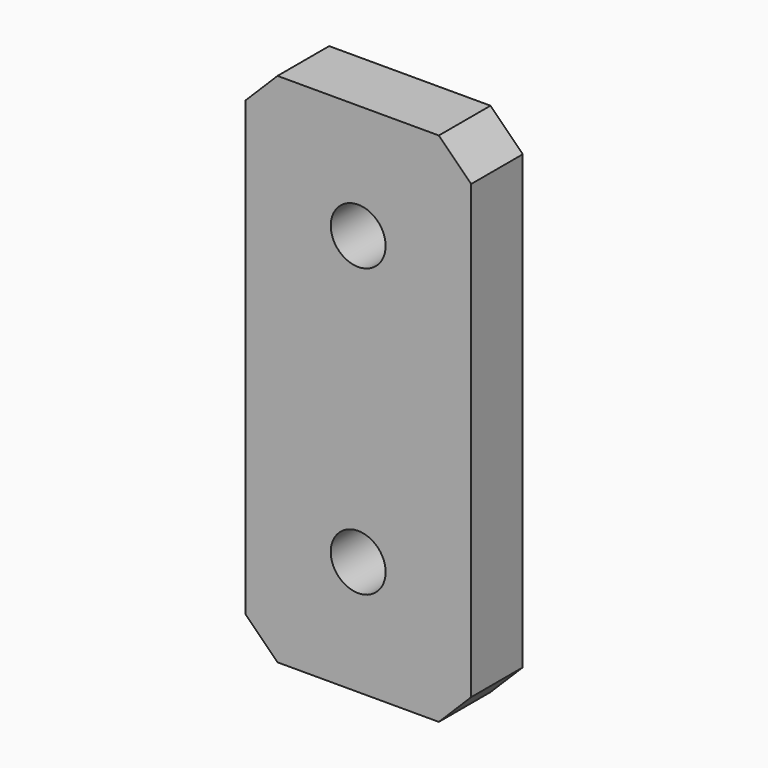
from build123d import *

# Parameters (mm, degrees)
F0_W     = 35
F0_H     = 80
F0_R     = 4.25
F1_DEPTH = 10
F2_SIZE  = 5


with BuildPart() as f1:
    # F0 (on Front) → F1 (new body)
    with BuildSketch(Plane.XZ):
        Rectangle(F0_W, F0_H)
        with Locations((0, -22.25)):
            Circle(F0_R, mode=Mode.SUBTRACT)
        with Locations((0, 22.25)):
            Circle(F0_R, mode=Mode.SUBTRACT)
    extrude(amount=F1_DEPTH)

    # F2
    f2_edges = [f1.edges().sort_by_distance(p)[0] for p in [
        (-17.5, -5, 40),
        (17.5, -5, 40),
        (-17.5, -5, -40),
        (17.5, -5, -40),
    ]]
    chamfer(f2_edges, length=F2_SIZE)


solid = f1.part
